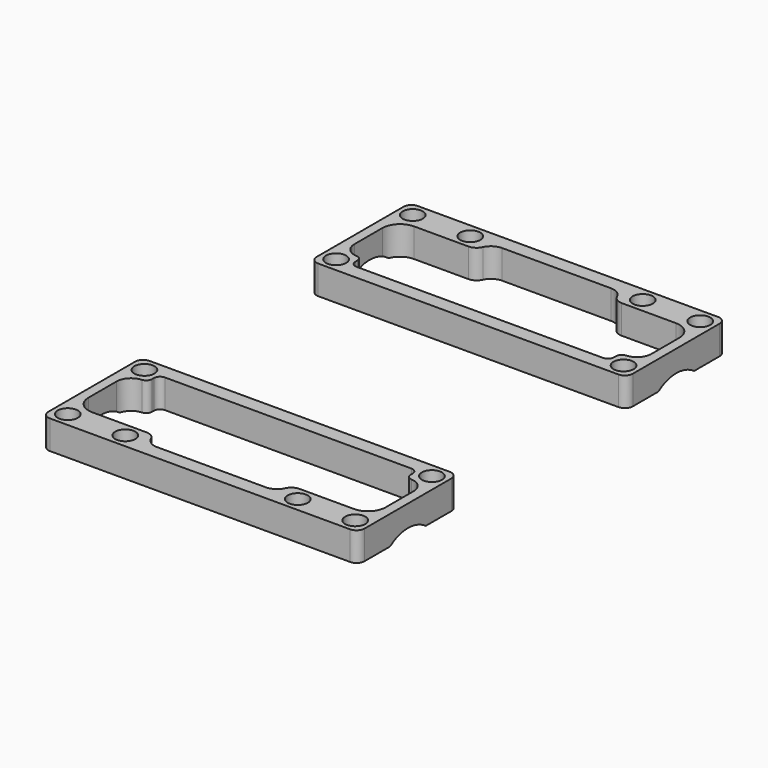
from build123d import *

# Parameters (mm, degrees)
CYLINDER_R       = 8
CYLINDER_DEPTH   = 17
ARRAY002_X_COUNT = 2
ARRAY002_X_PITCH = 60
SKETCH001_R      = 2.1
EXTRUDE_DEPTH    = 6


with BuildPart() as bearing_hole_compound:
    # Cylinder → Cylinder (new body)
    with BuildSketch(Plane(origin=(1.5, 88, -10.5), x_dir=(0, 0, -1), z_dir=(1, 0, 0))):
        Circle(CYLINDER_R)
    extrude(amount=CYLINDER_DEPTH)

    # Array002 X: bearing hole compound ×2


with BuildPart() as bearing_hole_compound_1:
    add(bearing_hole_compound.part)
    with Locations(*[(i * ARRAY002_X_PITCH, 0, 0) for i in range(1, ARRAY002_X_COUNT)]):
        add(bearing_hole_compound.part)


with BuildPart() as bearing_hole_compound_2:
    # Compound placement: moved
    add(bearing_hole_compound_1.part.moved(Location((-40, -88, 4))))


with BuildPart() as bearing_connector_extruder:
    # Sketch001 → Extrude (new body)
    with BuildSketch(Plane.XY):
        with BuildLine():
            Line((33, 11.326727), (33, -11.326727))
            ThreePointArc((31.326727, -13), (32.50991, -12.50991), (33, -11.326727))
            Line((0, -13), (31.326727, -13))
            Line((0, -10), (0, -13))
            Line((0, -10), (11.357556, -10))
            ThreePointArc((11.357556, -10), (12.931305, -9.535199), (14, -8.28996))
            ThreePointArc((15.993315, -7), (14.806165, -7.350621), (14, -8.28996))
            Line((15.993315, -7), (27.335971, -7))
            ThreePointArc((27.335971, -7), (29.927368, -5.921099), (31, -3.327101))
            Line((31, 3.972105), (31, -3.327101))
            ThreePointArc((31, 3.972105), (30.174276, 6.052347), (28.14667, 7))
            ThreePointArc((27, 8.216823), (27.331834, 7.380834), (28.14667, 7))
            Line((27, 8.216823), (27, 8.72003))
            ThreePointArc((27, 8.72003), (26.625105, 9.625105), (25.72003, 10))
            Line((0, 10), (25.72003, 10))
            Line((0, 13), (0, 10))
            Line((0, 13), (31.326727, 13))
            ThreePointArc((33, 11.326727), (32.50991, 12.50991), (31.326727, 13))
        make_face()
        with Locations((30, -10)):
            Circle(SKETCH001_R, mode=Mode.SUBTRACT)
        with Locations((30, 10)):
            Circle(SKETCH001_R, mode=Mode.SUBTRACT)
        with Locations((18, -10)):
            Circle(SKETCH001_R, mode=Mode.SUBTRACT)
    extrude(amount=EXTRUDE_DEPTH)


with BuildPart() as bearing_connector_compound:
    # Part__Mirroring: instance of bearing connector extruder
    add(bearing_connector_extruder.part.mirror(Plane(origin=(0, 0, 0), x_dir=(0, -1, 0), z_dir=(1, 0, 0))))

    # Fusion002: union bearing connector extruder
    add(bearing_connector_extruder.part)

    # Cut001: cut bearing hole compound
    add(bearing_hole_compound_2.part, mode=Mode.SUBTRACT)


with BuildPart() as bearing_connector_compound_1:
    # Compound005 placement: moved
    add(bearing_connector_compound.part.moved(Location((0, -35, 0))))


with BuildPart() as part_mirroring003:
    # Part__Mirroring003: instance of bearing connector compound
    add(bearing_connector_compound_1.part.mirror(Plane(origin=(0, 0, 0), x_dir=(1, 0, 0), z_dir=(0, 1, 0))))


with BuildPart() as bearing_connector_compound_fusion:
    # Fusion003 base: copy of bearing connector compound
    add(bearing_connector_compound_1.part)

    # Fusion003: union Part__Mirroring003
    add(part_mirroring003.part)


solid = bearing_connector_compound_fusion.part
